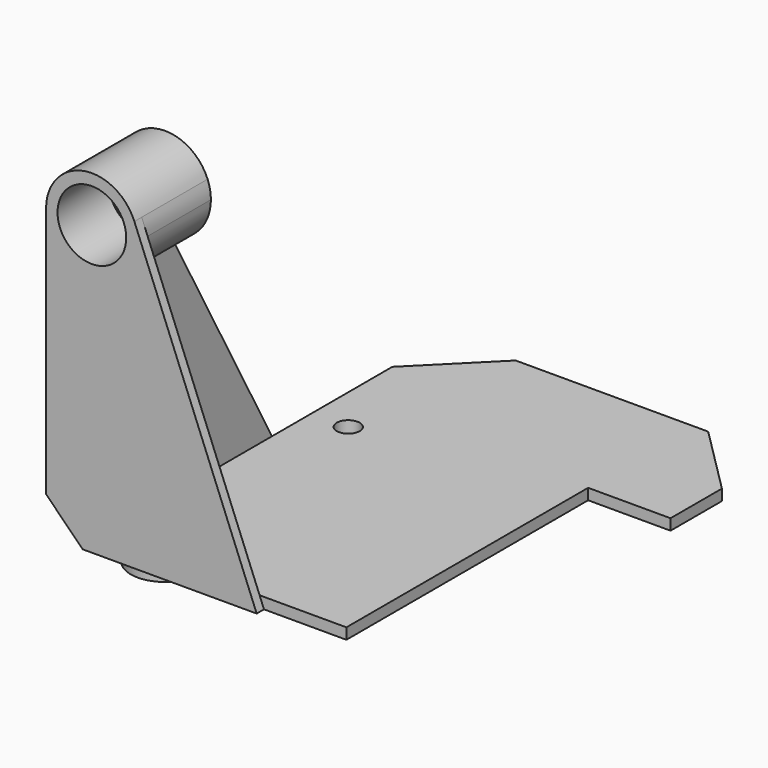
from build123d import *

# Parameters (mm, degrees)
F0_R      = 1.25
F1_DEPTH  = 1.2
F2_R      = 3.75
F2_R_2    = 1.25
F3_DEPTH  = 1.6
F4_R      = 1.75
F5_DEPTH  = 1
F6_DEPTH  = 9
F8_DEPTH  = 1
F10_DEPTH = 1.001
F11_R     = 3.75
F12_DEPTH = 7
F13_W     = 9
F13_H     = 33
F14_DEPTH = 2.801


with BuildPart() as f1:
    # F0 (on Top) → F1 (new body)
    with BuildSketch(Plane.XY):
        Polygon((0, 20), (0, 0), (36, 0), (36, 48.5), (0, 48.5), align=None)
        with Locations((4, 4)):
            Circle(F0_R, mode=Mode.SUBTRACT)
        with Locations((4, 29)):
            Circle(F0_R, mode=Mode.SUBTRACT)
    extrude(amount=F1_DEPTH)

    # F2 (on face) → F3 (join)
    with BuildSketch(Plane.XY):
        with Locations((4, 29)):
            Circle(F2_R)
        with Locations((4, 29)):
            Circle(F2_R_2, mode=Mode.SUBTRACT)
        with Locations((4, 4)):
            Circle(F2_R)
        with Locations((4, 4)):
            Circle(F2_R_2, mode=Mode.SUBTRACT)
    extrude(amount=-F3_DEPTH)

    # F4 (on Front) → F5 (join)
    with BuildSketch(Plane.XZ):
        with BuildLine():
            ThreePointArc((4.641671, 33.358733), (4.909601, 32.446479), (5, 31.5))
            ThreePointArc((5, 31.5), (0, 26.5), (-5, 31.5))
            Line((-5, 31.5), (-5, 0))
            Line((-5, 0), (0, 0))
            Line((0, 0), (18, 0))
            Line((18, 0), (4.641671, 33.358733))
        make_face()
        with BuildLine():
            ThreePointArc((-5, 31.5), (0, 26.5), (5, 31.5))
            ThreePointArc((5, 31.5), (4.909601, 32.446479), (4.641671, 33.358733))
            ThreePointArc((4.641671, 33.358733), (-0.946479, 36.409601), (-5, 31.5))
        make_face()
        with Locations((0, 31.5)):
            Circle(F4_R, mode=Mode.SUBTRACT)
    extrude(amount=F5_DEPTH)

    # F4 (on Front) → F6 (join)
    with BuildSketch(Plane.XZ):
        with BuildLine():
            ThreePointArc((-5, 31.5), (0, 26.5), (5, 31.5))
            ThreePointArc((5, 31.5), (4.909601, 32.446479), (4.641671, 33.358733))
            ThreePointArc((4.641671, 33.358733), (-0.946479, 36.409601), (-5, 31.5))
        make_face()
        with Locations((0, 31.5)):
            Circle(F4_R, mode=Mode.SUBTRACT)
    extrude(amount=-F6_DEPTH)

    # F7 (on face) → F8 (join)
    with BuildSketch(Plane(origin=(0, 0, 0), x_dir=(0, -1, 0), z_dir=(-1, 0, 0))):
        Polygon((-9, 27.5), (-24.25, 0), (0, 0), (0, 27.5), align=None)
    extrude(amount=F8_DEPTH)

    # F9 (on face) → F10 (cut, through all)
    with BuildSketch(Plane.XZ):
        Polygon((-5, 0), (-1, 0), (-5, 4), align=None)
    extrude(amount=F10_DEPTH, mode=Mode.SUBTRACT)

    # F11 (on face) → F12 (cut)
    with BuildSketch(Plane.XZ.offset(1)):
        with Locations((0, 31.5)):
            Circle(F11_R)
    extrude(amount=-F12_DEPTH, mode=Mode.SUBTRACT)

    # F13 (on face) → F14 (cut, through all)
    with BuildSketch(Plane.XY.offset(1.2)):
        Polygon((36, 48.5), (0, 48.5), (0, 47.5), (0, 40.014719), (7.485281, 47.5), (28.514719, 47.5), (36, 40.014719), (36, 47.5), align=None)
        with Locations((31.5, 16.5)):
            Rectangle(F13_W, F13_H)
    extrude(amount=-F14_DEPTH, mode=Mode.SUBTRACT)


solid = f1.part
